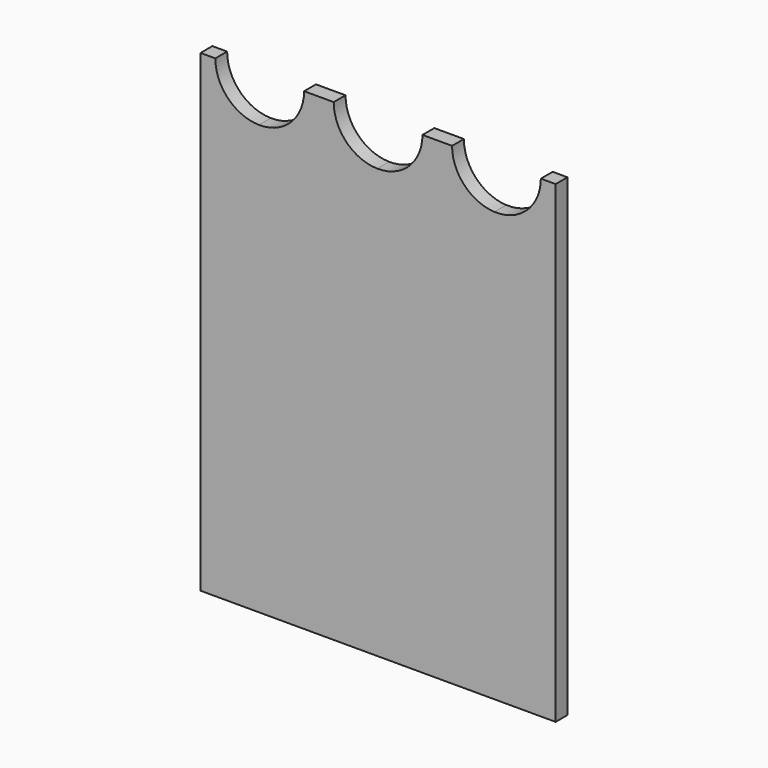
from build123d import *

# Parameters (mm, degrees)
F0_W     = 76.2
F0_H     = 101.6
F1_DEPTH = 1.5875
F3_DEPTH = 3.176


with BuildPart() as f1:
    # F0 (on Front) → F1 (new body, symmetric)
    with BuildSketch(Plane.XZ):
        Rectangle(F0_W, F0_H)
    extrude(amount=F1_DEPTH, both=True)

    # F2 (on face) → F3 (cut, through all)
    with BuildSketch(Plane.XZ.offset(1.5875)):
        with BuildLine():
            ThreePointArc((-34.925, 50.8), (-32.193219, 44.123339), (-25.564832, 41.276426))
            ThreePointArc((-25.564832, 41.276426), (-18.723339, 44.006781), (-15.875, 50.8))
            Line((-15.875, 50.8), (-34.925, 50.8))
        make_face()
        with BuildLine():
            ThreePointArc((-9.525, 50.8), (-6.795289, 44.125446), (-0.170739, 41.27653))
            ThreePointArc((-0.170739, 41.27653), (6.674554, 44.004711), (9.525, 50.8))
            Line((9.525, 50.8), (-9.525, 50.8))
        make_face()
        with BuildLine():
            ThreePointArc((15.875, 50.8), (18.519389, 44.213436), (24.984254, 41.284078))
            ThreePointArc((24.984254, 41.284078), (31.986564, 43.919389), (34.925, 50.8))
            Line((34.925, 50.8), (15.875, 50.8))
        make_face()
    extrude(amount=-F3_DEPTH, mode=Mode.SUBTRACT)


solid = f1.part
